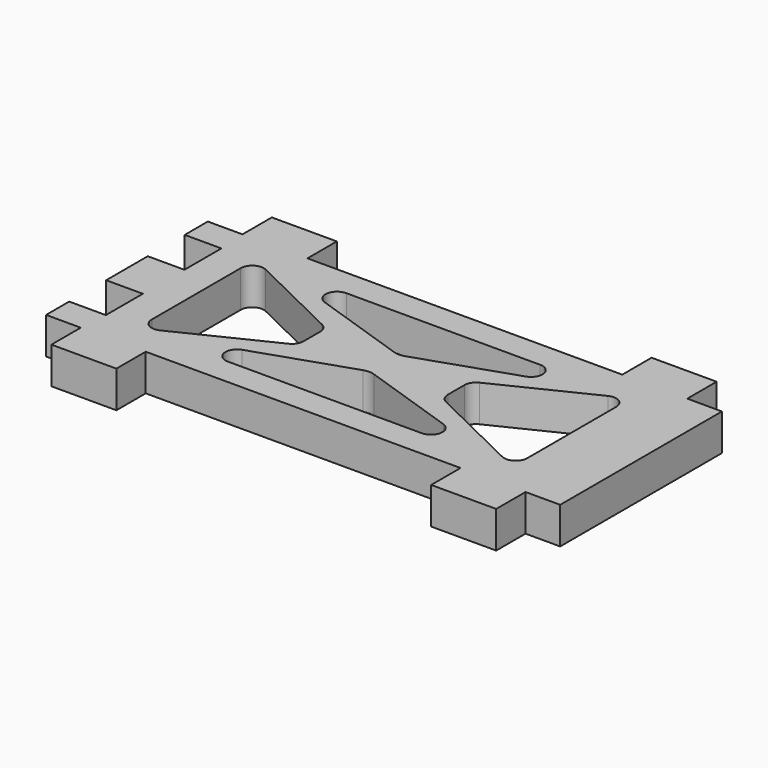
from build123d import *

# Parameters (mm, degrees)
F0_W     = 11.25
F0_H     = 6.35
F1_DEPTH = 6.35


with BuildPart() as f1:
    # F0 (on Top) → F1 (new body)
    with BuildSketch(Plane.XY):
        with Locations((-32.875, -20.675)):
            Rectangle(F0_W, F0_H)
        with Locations((32.875, -20.675)):
            Rectangle(F0_W, F0_H)
        Polygon((-38.5, 17.5), (-44.5, 17.5), (-44.5, 12.5), (-38.15, 12.5), (-38.15, 4.5), (-44.5, 4.5), (-44.5, -4.5), (-38.15, -4.5), (-38.15, -12.5), (-44.5, -12.5), (-44.5, -17.5), (-38.5, -17.5), (-27.25, -17.5), (27.25, -17.5), (38.5, -17.5), (44.5, -17.5), (44.5, 17.5), (38.5, 17.5), (27.25, 17.5), (-27.25, 17.5), align=None)
        with BuildLine():
            ThreePointArc((-16.784352, -12.821171), (-18.758037, -11.144538), (-17.422578, -8.925737))
            Line((-17.422578, -8.925737), (-0.957339, -3.381597))
            ThreePointArc((-0.957339, -3.381597), (0, -3.224747), (0.957339, -3.381597))
            Line((0.957339, -3.381597), (17.422578, -8.925737))
            ThreePointArc((17.422578, -8.925737), (18.758037, -11.144538), (16.784352, -12.821171))
            Line((16.784352, -12.821171), (0, -12.821171))
            Line((0, -12.821171), (-16.784352, -12.821171))
        make_face(mode=Mode.SUBTRACT)
        with BuildLine():
            Line((-32.5, -9.619725), (-32.5, 0))
            Line((-32.5, 0), (-32.5, 9.619725))
            ThreePointArc((-32.5, 9.619725), (-31.559654, 11.315936), (-29.622866, 11.417121))
            Line((-29.622866, 11.417121), (-13.619025, 3.607205))
            ThreePointArc((-13.619025, 3.607205), (-12.799947, 2.869462), (-12.496159, 1.809809))
            Line((-12.496159, 1.809809), (-12.496159, 0))
            Line((-12.496159, 0), (-12.496159, -1.809809))
            ThreePointArc((-12.496159, -1.809809), (-12.799947, -2.869462), (-13.619025, -3.607205))
            Line((-13.619025, -3.607205), (-29.622866, -11.417121))
            ThreePointArc((-29.622866, -11.417121), (-31.559654, -11.315936), (-32.5, -9.619725))
        make_face(mode=Mode.SUBTRACT)
        with BuildLine():
            Line((17.422578, 8.925737), (0.957339, 3.381597))
            ThreePointArc((0.957339, 3.381597), (0, 3.224747), (-0.957339, 3.381597))
            Line((-0.957339, 3.381597), (-17.422578, 8.925737))
            ThreePointArc((-17.422578, 8.925737), (-18.758037, 11.144538), (-16.784352, 12.821171))
            Line((-16.784352, 12.821171), (0, 12.821171))
            Line((0, 12.821171), (16.784352, 12.821171))
            ThreePointArc((16.784352, 12.821171), (18.758037, 11.144538), (17.422578, 8.925737))
        make_face(mode=Mode.SUBTRACT)
        with BuildLine():
            ThreePointArc((13.619025, -3.607205), (12.799947, -2.869462), (12.496159, -1.809809))
            Line((12.496159, -1.809809), (12.496159, 0))
            Line((12.496159, 0), (12.496159, 1.809809))
            ThreePointArc((12.496159, 1.809809), (12.799947, 2.869462), (13.619025, 3.607205))
            Line((13.619025, 3.607205), (29.622866, 11.417121))
            ThreePointArc((29.622866, 11.417121), (31.559654, 11.315936), (32.5, 9.619725))
            Line((32.5, 9.619725), (32.5, 0))
            Line((32.5, 0), (32.5, -9.619725))
            ThreePointArc((32.5, -9.619725), (31.559654, -11.315936), (29.622866, -11.417121))
            Line((29.622866, -11.417121), (13.619025, -3.607205))
        make_face(mode=Mode.SUBTRACT)
        with Locations((-32.875, 20.675)):
            Rectangle(F0_W, F0_H)
        with Locations((32.875, 20.675)):
            Rectangle(F0_W, F0_H)
    extrude(amount=F1_DEPTH)


solid = f1.part
